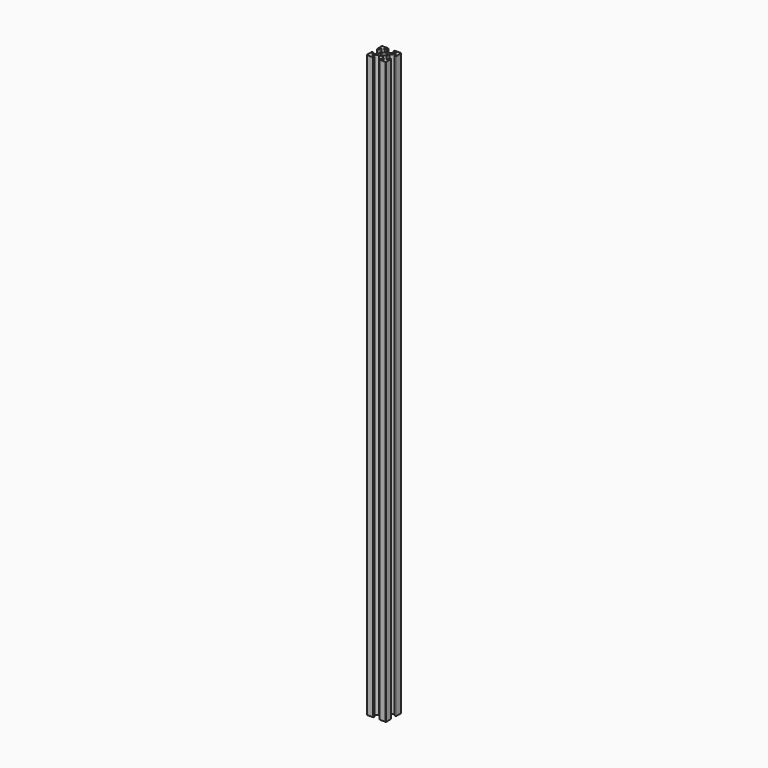
from build123d import *

# Parameters (mm, degrees)
F0_R     = 1.25
F1_DEPTH = 20
F2_DEPTH = 30
F3_DEPTH = 50
F4_DEPTH = 75
F5_DEPTH = 100
F6_DEPTH = 150


with BuildPart() as f1:
    # F0 (on Top) → F1 (new body, symmetric)
    with BuildSketch(Plane.XY):
        with BuildLine():
            Line((-2, 1), (-2, 0))
            Line((-2, 0), (-2, -1))
            Line((-2, -1), (-3.646791, -2.962569))
            ThreePointArc((-3.646791, -2.962569), (-3.868404, -3.02195), (-4, -2.834012))
            Line((-4, -2.834012), (-4, -1.7))
            ThreePointArc((-4, -1.7), (-4.058579, -1.558579), (-4.2, -1.5))
            Line((-4.2, -1.5), (-4.8, -1.5))
            ThreePointArc((-4.8, -1.5), (-4.941421, -1.558579), (-5, -1.7))
            Line((-5, -1.7), (-5, -4.8))
            ThreePointArc((-5, -4.8), (-4.984776, -4.876537), (-4.941421, -4.941421))
            ThreePointArc((-4.941421, -4.941421), (-4.876537, -4.984776), (-4.8, -5))
            Line((-4.8, -5), (-1.7, -5))
            ThreePointArc((-1.7, -5), (-1.558579, -4.941421), (-1.5, -4.8))
            Line((-1.5, -4.8), (-1.5, -4.2))
            ThreePointArc((-1.5, -4.2), (-1.558579, -4.058579), (-1.7, -4))
            Line((-1.7, -4), (-2.834012, -4))
            ThreePointArc((-2.834012, -4), (-3.02195, -3.868404), (-2.962569, -3.646791))
            Line((-2.962569, -3.646791), (-1, -2))
            Line((-1, -2), (0, -2))
            Line((0, -2), (1, -2))
            Line((1, -2), (2.962569, -3.646791))
            ThreePointArc((2.962569, -3.646791), (3.02195, -3.868404), (2.834012, -4))
            Line((2.834012, -4), (1.7, -4))
            ThreePointArc((1.7, -4), (1.558579, -4.058579), (1.5, -4.2))
            Line((1.5, -4.2), (1.5, -4.8))
            ThreePointArc((1.5, -4.8), (1.558579, -4.941421), (1.7, -5))
            Line((1.7, -5), (4.8, -5))
            ThreePointArc((4.8, -5), (4.876537, -4.984776), (4.941421, -4.941421))
            ThreePointArc((4.941421, -4.941421), (4.984776, -4.876537), (5, -4.8))
            Line((5, -4.8), (5, -1.7))
            ThreePointArc((5, -1.7), (4.941421, -1.558579), (4.8, -1.5))
            Line((4.8, -1.5), (4.2, -1.5))
            ThreePointArc((4.2, -1.5), (4.058579, -1.558579), (4, -1.7))
            Line((4, -1.7), (4, -2.834012))
            ThreePointArc((4, -2.834012), (3.868404, -3.02195), (3.646791, -2.962569))
            Line((3.646791, -2.962569), (2, -1))
            Line((2, -1), (2, 0))
            Line((2, 0), (2, 1))
            Line((2, 1), (3.646791, 2.962569))
            ThreePointArc((3.646791, 2.962569), (3.868404, 3.02195), (4, 2.834012))
            Line((4, 2.834012), (4, 1.7))
            ThreePointArc((4, 1.7), (4.058579, 1.558579), (4.2, 1.5))
            Line((4.2, 1.5), (4.8, 1.5))
            ThreePointArc((4.8, 1.5), (4.941421, 1.558579), (5, 1.7))
            Line((5, 1.7), (5, 4.8))
            ThreePointArc((5, 4.8), (4.984776, 4.876537), (4.941421, 4.941421))
            ThreePointArc((4.941421, 4.941421), (4.876537, 4.984776), (4.8, 5))
            Line((4.8, 5), (1.7, 5))
            ThreePointArc((1.7, 5), (1.558579, 4.941421), (1.5, 4.8))
            Line((1.5, 4.8), (1.5, 4.2))
            ThreePointArc((1.5, 4.2), (1.558579, 4.058579), (1.7, 4))
            Line((1.7, 4), (2.834012, 4))
            ThreePointArc((2.834012, 4), (3.02195, 3.868404), (2.962569, 3.646791))
            Line((2.962569, 3.646791), (1, 2))
            Line((1, 2), (0, 2))
            Line((0, 2), (-1, 2))
            Line((-1, 2), (-2.962569, 3.646791))
            ThreePointArc((-2.962569, 3.646791), (-3.02195, 3.868404), (-2.834012, 4))
            Line((-2.834012, 4), (-1.7, 4))
            ThreePointArc((-1.7, 4), (-1.558579, 4.058579), (-1.5, 4.2))
            Line((-1.5, 4.2), (-1.5, 4.8))
            ThreePointArc((-1.5, 4.8), (-1.558579, 4.941421), (-1.7, 5))
            Line((-1.7, 5), (-4.8, 5))
            ThreePointArc((-4.8, 5), (-4.876537, 4.984776), (-4.941421, 4.941421))
            ThreePointArc((-4.941421, 4.941421), (-4.984776, 4.876537), (-5, 4.8))
            Line((-5, 4.8), (-5, 1.7))
            ThreePointArc((-5, 1.7), (-4.941421, 1.558579), (-4.8, 1.5))
            Line((-4.8, 1.5), (-4.2, 1.5))
            ThreePointArc((-4.2, 1.5), (-4.058579, 1.558579), (-4, 1.7))
            Line((-4, 1.7), (-4, 2.834012))
            ThreePointArc((-4, 2.834012), (-3.868404, 3.02195), (-3.646791, 2.962569))
            Line((-3.646791, 2.962569), (-2, 1))
        make_face()
        Circle(F0_R, mode=Mode.SUBTRACT)
    extrude(amount=F1_DEPTH, both=True)


with BuildPart() as f2:
    # F0 (on Top) → F2 (new body, symmetric)
    with BuildSketch(Plane.XY):
        with BuildLine():
            Line((-2, 1), (-2, 0))
            Line((-2, 0), (-2, -1))
            Line((-2, -1), (-3.646791, -2.962569))
            ThreePointArc((-3.646791, -2.962569), (-3.868404, -3.02195), (-4, -2.834012))
            Line((-4, -2.834012), (-4, -1.7))
            ThreePointArc((-4, -1.7), (-4.058579, -1.558579), (-4.2, -1.5))
            Line((-4.2, -1.5), (-4.8, -1.5))
            ThreePointArc((-4.8, -1.5), (-4.941421, -1.558579), (-5, -1.7))
            Line((-5, -1.7), (-5, -4.8))
            ThreePointArc((-5, -4.8), (-4.984776, -4.876537), (-4.941421, -4.941421))
            ThreePointArc((-4.941421, -4.941421), (-4.876537, -4.984776), (-4.8, -5))
            Line((-4.8, -5), (-1.7, -5))
            ThreePointArc((-1.7, -5), (-1.558579, -4.941421), (-1.5, -4.8))
            Line((-1.5, -4.8), (-1.5, -4.2))
            ThreePointArc((-1.5, -4.2), (-1.558579, -4.058579), (-1.7, -4))
            Line((-1.7, -4), (-2.834012, -4))
            ThreePointArc((-2.834012, -4), (-3.02195, -3.868404), (-2.962569, -3.646791))
            Line((-2.962569, -3.646791), (-1, -2))
            Line((-1, -2), (0, -2))
            Line((0, -2), (1, -2))
            Line((1, -2), (2.962569, -3.646791))
            ThreePointArc((2.962569, -3.646791), (3.02195, -3.868404), (2.834012, -4))
            Line((2.834012, -4), (1.7, -4))
            ThreePointArc((1.7, -4), (1.558579, -4.058579), (1.5, -4.2))
            Line((1.5, -4.2), (1.5, -4.8))
            ThreePointArc((1.5, -4.8), (1.558579, -4.941421), (1.7, -5))
            Line((1.7, -5), (4.8, -5))
            ThreePointArc((4.8, -5), (4.876537, -4.984776), (4.941421, -4.941421))
            ThreePointArc((4.941421, -4.941421), (4.984776, -4.876537), (5, -4.8))
            Line((5, -4.8), (5, -1.7))
            ThreePointArc((5, -1.7), (4.941421, -1.558579), (4.8, -1.5))
            Line((4.8, -1.5), (4.2, -1.5))
            ThreePointArc((4.2, -1.5), (4.058579, -1.558579), (4, -1.7))
            Line((4, -1.7), (4, -2.834012))
            ThreePointArc((4, -2.834012), (3.868404, -3.02195), (3.646791, -2.962569))
            Line((3.646791, -2.962569), (2, -1))
            Line((2, -1), (2, 0))
            Line((2, 0), (2, 1))
            Line((2, 1), (3.646791, 2.962569))
            ThreePointArc((3.646791, 2.962569), (3.868404, 3.02195), (4, 2.834012))
            Line((4, 2.834012), (4, 1.7))
            ThreePointArc((4, 1.7), (4.058579, 1.558579), (4.2, 1.5))
            Line((4.2, 1.5), (4.8, 1.5))
            ThreePointArc((4.8, 1.5), (4.941421, 1.558579), (5, 1.7))
            Line((5, 1.7), (5, 4.8))
            ThreePointArc((5, 4.8), (4.984776, 4.876537), (4.941421, 4.941421))
            ThreePointArc((4.941421, 4.941421), (4.876537, 4.984776), (4.8, 5))
            Line((4.8, 5), (1.7, 5))
            ThreePointArc((1.7, 5), (1.558579, 4.941421), (1.5, 4.8))
            Line((1.5, 4.8), (1.5, 4.2))
            ThreePointArc((1.5, 4.2), (1.558579, 4.058579), (1.7, 4))
            Line((1.7, 4), (2.834012, 4))
            ThreePointArc((2.834012, 4), (3.02195, 3.868404), (2.962569, 3.646791))
            Line((2.962569, 3.646791), (1, 2))
            Line((1, 2), (0, 2))
            Line((0, 2), (-1, 2))
            Line((-1, 2), (-2.962569, 3.646791))
            ThreePointArc((-2.962569, 3.646791), (-3.02195, 3.868404), (-2.834012, 4))
            Line((-2.834012, 4), (-1.7, 4))
            ThreePointArc((-1.7, 4), (-1.558579, 4.058579), (-1.5, 4.2))
            Line((-1.5, 4.2), (-1.5, 4.8))
            ThreePointArc((-1.5, 4.8), (-1.558579, 4.941421), (-1.7, 5))
            Line((-1.7, 5), (-4.8, 5))
            ThreePointArc((-4.8, 5), (-4.876537, 4.984776), (-4.941421, 4.941421))
            ThreePointArc((-4.941421, 4.941421), (-4.984776, 4.876537), (-5, 4.8))
            Line((-5, 4.8), (-5, 1.7))
            ThreePointArc((-5, 1.7), (-4.941421, 1.558579), (-4.8, 1.5))
            Line((-4.8, 1.5), (-4.2, 1.5))
            ThreePointArc((-4.2, 1.5), (-4.058579, 1.558579), (-4, 1.7))
            Line((-4, 1.7), (-4, 2.834012))
            ThreePointArc((-4, 2.834012), (-3.868404, 3.02195), (-3.646791, 2.962569))
            Line((-3.646791, 2.962569), (-2, 1))
        make_face()
        Circle(F0_R, mode=Mode.SUBTRACT)
    extrude(amount=F2_DEPTH, both=True)


with BuildPart() as f3:
    # F0 (on Top) → F3 (new body, symmetric)
    with BuildSketch(Plane.XY):
        with BuildLine():
            Line((-2, 1), (-2, 0))
            Line((-2, 0), (-2, -1))
            Line((-2, -1), (-3.646791, -2.962569))
            ThreePointArc((-3.646791, -2.962569), (-3.868404, -3.02195), (-4, -2.834012))
            Line((-4, -2.834012), (-4, -1.7))
            ThreePointArc((-4, -1.7), (-4.058579, -1.558579), (-4.2, -1.5))
            Line((-4.2, -1.5), (-4.8, -1.5))
            ThreePointArc((-4.8, -1.5), (-4.941421, -1.558579), (-5, -1.7))
            Line((-5, -1.7), (-5, -4.8))
            ThreePointArc((-5, -4.8), (-4.984776, -4.876537), (-4.941421, -4.941421))
            ThreePointArc((-4.941421, -4.941421), (-4.876537, -4.984776), (-4.8, -5))
            Line((-4.8, -5), (-1.7, -5))
            ThreePointArc((-1.7, -5), (-1.558579, -4.941421), (-1.5, -4.8))
            Line((-1.5, -4.8), (-1.5, -4.2))
            ThreePointArc((-1.5, -4.2), (-1.558579, -4.058579), (-1.7, -4))
            Line((-1.7, -4), (-2.834012, -4))
            ThreePointArc((-2.834012, -4), (-3.02195, -3.868404), (-2.962569, -3.646791))
            Line((-2.962569, -3.646791), (-1, -2))
            Line((-1, -2), (0, -2))
            Line((0, -2), (1, -2))
            Line((1, -2), (2.962569, -3.646791))
            ThreePointArc((2.962569, -3.646791), (3.02195, -3.868404), (2.834012, -4))
            Line((2.834012, -4), (1.7, -4))
            ThreePointArc((1.7, -4), (1.558579, -4.058579), (1.5, -4.2))
            Line((1.5, -4.2), (1.5, -4.8))
            ThreePointArc((1.5, -4.8), (1.558579, -4.941421), (1.7, -5))
            Line((1.7, -5), (4.8, -5))
            ThreePointArc((4.8, -5), (4.876537, -4.984776), (4.941421, -4.941421))
            ThreePointArc((4.941421, -4.941421), (4.984776, -4.876537), (5, -4.8))
            Line((5, -4.8), (5, -1.7))
            ThreePointArc((5, -1.7), (4.941421, -1.558579), (4.8, -1.5))
            Line((4.8, -1.5), (4.2, -1.5))
            ThreePointArc((4.2, -1.5), (4.058579, -1.558579), (4, -1.7))
            Line((4, -1.7), (4, -2.834012))
            ThreePointArc((4, -2.834012), (3.868404, -3.02195), (3.646791, -2.962569))
            Line((3.646791, -2.962569), (2, -1))
            Line((2, -1), (2, 0))
            Line((2, 0), (2, 1))
            Line((2, 1), (3.646791, 2.962569))
            ThreePointArc((3.646791, 2.962569), (3.868404, 3.02195), (4, 2.834012))
            Line((4, 2.834012), (4, 1.7))
            ThreePointArc((4, 1.7), (4.058579, 1.558579), (4.2, 1.5))
            Line((4.2, 1.5), (4.8, 1.5))
            ThreePointArc((4.8, 1.5), (4.941421, 1.558579), (5, 1.7))
            Line((5, 1.7), (5, 4.8))
            ThreePointArc((5, 4.8), (4.984776, 4.876537), (4.941421, 4.941421))
            ThreePointArc((4.941421, 4.941421), (4.876537, 4.984776), (4.8, 5))
            Line((4.8, 5), (1.7, 5))
            ThreePointArc((1.7, 5), (1.558579, 4.941421), (1.5, 4.8))
            Line((1.5, 4.8), (1.5, 4.2))
            ThreePointArc((1.5, 4.2), (1.558579, 4.058579), (1.7, 4))
            Line((1.7, 4), (2.834012, 4))
            ThreePointArc((2.834012, 4), (3.02195, 3.868404), (2.962569, 3.646791))
            Line((2.962569, 3.646791), (1, 2))
            Line((1, 2), (0, 2))
            Line((0, 2), (-1, 2))
            Line((-1, 2), (-2.962569, 3.646791))
            ThreePointArc((-2.962569, 3.646791), (-3.02195, 3.868404), (-2.834012, 4))
            Line((-2.834012, 4), (-1.7, 4))
            ThreePointArc((-1.7, 4), (-1.558579, 4.058579), (-1.5, 4.2))
            Line((-1.5, 4.2), (-1.5, 4.8))
            ThreePointArc((-1.5, 4.8), (-1.558579, 4.941421), (-1.7, 5))
            Line((-1.7, 5), (-4.8, 5))
            ThreePointArc((-4.8, 5), (-4.876537, 4.984776), (-4.941421, 4.941421))
            ThreePointArc((-4.941421, 4.941421), (-4.984776, 4.876537), (-5, 4.8))
            Line((-5, 4.8), (-5, 1.7))
            ThreePointArc((-5, 1.7), (-4.941421, 1.558579), (-4.8, 1.5))
            Line((-4.8, 1.5), (-4.2, 1.5))
            ThreePointArc((-4.2, 1.5), (-4.058579, 1.558579), (-4, 1.7))
            Line((-4, 1.7), (-4, 2.834012))
            ThreePointArc((-4, 2.834012), (-3.868404, 3.02195), (-3.646791, 2.962569))
            Line((-3.646791, 2.962569), (-2, 1))
        make_face()
        Circle(F0_R, mode=Mode.SUBTRACT)
    extrude(amount=F3_DEPTH, both=True)


with BuildPart() as f4:
    # F0 (on Top) → F4 (new body, symmetric)
    with BuildSketch(Plane.XY):
        with BuildLine():
            Line((-2, 1), (-2, 0))
            Line((-2, 0), (-2, -1))
            Line((-2, -1), (-3.646791, -2.962569))
            ThreePointArc((-3.646791, -2.962569), (-3.868404, -3.02195), (-4, -2.834012))
            Line((-4, -2.834012), (-4, -1.7))
            ThreePointArc((-4, -1.7), (-4.058579, -1.558579), (-4.2, -1.5))
            Line((-4.2, -1.5), (-4.8, -1.5))
            ThreePointArc((-4.8, -1.5), (-4.941421, -1.558579), (-5, -1.7))
            Line((-5, -1.7), (-5, -4.8))
            ThreePointArc((-5, -4.8), (-4.984776, -4.876537), (-4.941421, -4.941421))
            ThreePointArc((-4.941421, -4.941421), (-4.876537, -4.984776), (-4.8, -5))
            Line((-4.8, -5), (-1.7, -5))
            ThreePointArc((-1.7, -5), (-1.558579, -4.941421), (-1.5, -4.8))
            Line((-1.5, -4.8), (-1.5, -4.2))
            ThreePointArc((-1.5, -4.2), (-1.558579, -4.058579), (-1.7, -4))
            Line((-1.7, -4), (-2.834012, -4))
            ThreePointArc((-2.834012, -4), (-3.02195, -3.868404), (-2.962569, -3.646791))
            Line((-2.962569, -3.646791), (-1, -2))
            Line((-1, -2), (0, -2))
            Line((0, -2), (1, -2))
            Line((1, -2), (2.962569, -3.646791))
            ThreePointArc((2.962569, -3.646791), (3.02195, -3.868404), (2.834012, -4))
            Line((2.834012, -4), (1.7, -4))
            ThreePointArc((1.7, -4), (1.558579, -4.058579), (1.5, -4.2))
            Line((1.5, -4.2), (1.5, -4.8))
            ThreePointArc((1.5, -4.8), (1.558579, -4.941421), (1.7, -5))
            Line((1.7, -5), (4.8, -5))
            ThreePointArc((4.8, -5), (4.876537, -4.984776), (4.941421, -4.941421))
            ThreePointArc((4.941421, -4.941421), (4.984776, -4.876537), (5, -4.8))
            Line((5, -4.8), (5, -1.7))
            ThreePointArc((5, -1.7), (4.941421, -1.558579), (4.8, -1.5))
            Line((4.8, -1.5), (4.2, -1.5))
            ThreePointArc((4.2, -1.5), (4.058579, -1.558579), (4, -1.7))
            Line((4, -1.7), (4, -2.834012))
            ThreePointArc((4, -2.834012), (3.868404, -3.02195), (3.646791, -2.962569))
            Line((3.646791, -2.962569), (2, -1))
            Line((2, -1), (2, 0))
            Line((2, 0), (2, 1))
            Line((2, 1), (3.646791, 2.962569))
            ThreePointArc((3.646791, 2.962569), (3.868404, 3.02195), (4, 2.834012))
            Line((4, 2.834012), (4, 1.7))
            ThreePointArc((4, 1.7), (4.058579, 1.558579), (4.2, 1.5))
            Line((4.2, 1.5), (4.8, 1.5))
            ThreePointArc((4.8, 1.5), (4.941421, 1.558579), (5, 1.7))
            Line((5, 1.7), (5, 4.8))
            ThreePointArc((5, 4.8), (4.984776, 4.876537), (4.941421, 4.941421))
            ThreePointArc((4.941421, 4.941421), (4.876537, 4.984776), (4.8, 5))
            Line((4.8, 5), (1.7, 5))
            ThreePointArc((1.7, 5), (1.558579, 4.941421), (1.5, 4.8))
            Line((1.5, 4.8), (1.5, 4.2))
            ThreePointArc((1.5, 4.2), (1.558579, 4.058579), (1.7, 4))
            Line((1.7, 4), (2.834012, 4))
            ThreePointArc((2.834012, 4), (3.02195, 3.868404), (2.962569, 3.646791))
            Line((2.962569, 3.646791), (1, 2))
            Line((1, 2), (0, 2))
            Line((0, 2), (-1, 2))
            Line((-1, 2), (-2.962569, 3.646791))
            ThreePointArc((-2.962569, 3.646791), (-3.02195, 3.868404), (-2.834012, 4))
            Line((-2.834012, 4), (-1.7, 4))
            ThreePointArc((-1.7, 4), (-1.558579, 4.058579), (-1.5, 4.2))
            Line((-1.5, 4.2), (-1.5, 4.8))
            ThreePointArc((-1.5, 4.8), (-1.558579, 4.941421), (-1.7, 5))
            Line((-1.7, 5), (-4.8, 5))
            ThreePointArc((-4.8, 5), (-4.876537, 4.984776), (-4.941421, 4.941421))
            ThreePointArc((-4.941421, 4.941421), (-4.984776, 4.876537), (-5, 4.8))
            Line((-5, 4.8), (-5, 1.7))
            ThreePointArc((-5, 1.7), (-4.941421, 1.558579), (-4.8, 1.5))
            Line((-4.8, 1.5), (-4.2, 1.5))
            ThreePointArc((-4.2, 1.5), (-4.058579, 1.558579), (-4, 1.7))
            Line((-4, 1.7), (-4, 2.834012))
            ThreePointArc((-4, 2.834012), (-3.868404, 3.02195), (-3.646791, 2.962569))
            Line((-3.646791, 2.962569), (-2, 1))
        make_face()
        Circle(F0_R, mode=Mode.SUBTRACT)
    extrude(amount=F4_DEPTH, both=True)


with BuildPart() as f5:
    # F0 (on Top) → F5 (new body, symmetric)
    with BuildSketch(Plane.XY):
        with BuildLine():
            Line((-2, 1), (-2, 0))
            Line((-2, 0), (-2, -1))
            Line((-2, -1), (-3.646791, -2.962569))
            ThreePointArc((-3.646791, -2.962569), (-3.868404, -3.02195), (-4, -2.834012))
            Line((-4, -2.834012), (-4, -1.7))
            ThreePointArc((-4, -1.7), (-4.058579, -1.558579), (-4.2, -1.5))
            Line((-4.2, -1.5), (-4.8, -1.5))
            ThreePointArc((-4.8, -1.5), (-4.941421, -1.558579), (-5, -1.7))
            Line((-5, -1.7), (-5, -4.8))
            ThreePointArc((-5, -4.8), (-4.984776, -4.876537), (-4.941421, -4.941421))
            ThreePointArc((-4.941421, -4.941421), (-4.876537, -4.984776), (-4.8, -5))
            Line((-4.8, -5), (-1.7, -5))
            ThreePointArc((-1.7, -5), (-1.558579, -4.941421), (-1.5, -4.8))
            Line((-1.5, -4.8), (-1.5, -4.2))
            ThreePointArc((-1.5, -4.2), (-1.558579, -4.058579), (-1.7, -4))
            Line((-1.7, -4), (-2.834012, -4))
            ThreePointArc((-2.834012, -4), (-3.02195, -3.868404), (-2.962569, -3.646791))
            Line((-2.962569, -3.646791), (-1, -2))
            Line((-1, -2), (0, -2))
            Line((0, -2), (1, -2))
            Line((1, -2), (2.962569, -3.646791))
            ThreePointArc((2.962569, -3.646791), (3.02195, -3.868404), (2.834012, -4))
            Line((2.834012, -4), (1.7, -4))
            ThreePointArc((1.7, -4), (1.558579, -4.058579), (1.5, -4.2))
            Line((1.5, -4.2), (1.5, -4.8))
            ThreePointArc((1.5, -4.8), (1.558579, -4.941421), (1.7, -5))
            Line((1.7, -5), (4.8, -5))
            ThreePointArc((4.8, -5), (4.876537, -4.984776), (4.941421, -4.941421))
            ThreePointArc((4.941421, -4.941421), (4.984776, -4.876537), (5, -4.8))
            Line((5, -4.8), (5, -1.7))
            ThreePointArc((5, -1.7), (4.941421, -1.558579), (4.8, -1.5))
            Line((4.8, -1.5), (4.2, -1.5))
            ThreePointArc((4.2, -1.5), (4.058579, -1.558579), (4, -1.7))
            Line((4, -1.7), (4, -2.834012))
            ThreePointArc((4, -2.834012), (3.868404, -3.02195), (3.646791, -2.962569))
            Line((3.646791, -2.962569), (2, -1))
            Line((2, -1), (2, 0))
            Line((2, 0), (2, 1))
            Line((2, 1), (3.646791, 2.962569))
            ThreePointArc((3.646791, 2.962569), (3.868404, 3.02195), (4, 2.834012))
            Line((4, 2.834012), (4, 1.7))
            ThreePointArc((4, 1.7), (4.058579, 1.558579), (4.2, 1.5))
            Line((4.2, 1.5), (4.8, 1.5))
            ThreePointArc((4.8, 1.5), (4.941421, 1.558579), (5, 1.7))
            Line((5, 1.7), (5, 4.8))
            ThreePointArc((5, 4.8), (4.984776, 4.876537), (4.941421, 4.941421))
            ThreePointArc((4.941421, 4.941421), (4.876537, 4.984776), (4.8, 5))
            Line((4.8, 5), (1.7, 5))
            ThreePointArc((1.7, 5), (1.558579, 4.941421), (1.5, 4.8))
            Line((1.5, 4.8), (1.5, 4.2))
            ThreePointArc((1.5, 4.2), (1.558579, 4.058579), (1.7, 4))
            Line((1.7, 4), (2.834012, 4))
            ThreePointArc((2.834012, 4), (3.02195, 3.868404), (2.962569, 3.646791))
            Line((2.962569, 3.646791), (1, 2))
            Line((1, 2), (0, 2))
            Line((0, 2), (-1, 2))
            Line((-1, 2), (-2.962569, 3.646791))
            ThreePointArc((-2.962569, 3.646791), (-3.02195, 3.868404), (-2.834012, 4))
            Line((-2.834012, 4), (-1.7, 4))
            ThreePointArc((-1.7, 4), (-1.558579, 4.058579), (-1.5, 4.2))
            Line((-1.5, 4.2), (-1.5, 4.8))
            ThreePointArc((-1.5, 4.8), (-1.558579, 4.941421), (-1.7, 5))
            Line((-1.7, 5), (-4.8, 5))
            ThreePointArc((-4.8, 5), (-4.876537, 4.984776), (-4.941421, 4.941421))
            ThreePointArc((-4.941421, 4.941421), (-4.984776, 4.876537), (-5, 4.8))
            Line((-5, 4.8), (-5, 1.7))
            ThreePointArc((-5, 1.7), (-4.941421, 1.558579), (-4.8, 1.5))
            Line((-4.8, 1.5), (-4.2, 1.5))
            ThreePointArc((-4.2, 1.5), (-4.058579, 1.558579), (-4, 1.7))
            Line((-4, 1.7), (-4, 2.834012))
            ThreePointArc((-4, 2.834012), (-3.868404, 3.02195), (-3.646791, 2.962569))
            Line((-3.646791, 2.962569), (-2, 1))
        make_face()
        Circle(F0_R, mode=Mode.SUBTRACT)
    extrude(amount=F5_DEPTH, both=True)


with BuildPart() as f6:
    # F0 (on Top) → F6 (new body, symmetric)
    with BuildSketch(Plane.XY):
        with BuildLine():
            Line((-2, 1), (-2, 0))
            Line((-2, 0), (-2, -1))
            Line((-2, -1), (-3.646791, -2.962569))
            ThreePointArc((-3.646791, -2.962569), (-3.868404, -3.02195), (-4, -2.834012))
            Line((-4, -2.834012), (-4, -1.7))
            ThreePointArc((-4, -1.7), (-4.058579, -1.558579), (-4.2, -1.5))
            Line((-4.2, -1.5), (-4.8, -1.5))
            ThreePointArc((-4.8, -1.5), (-4.941421, -1.558579), (-5, -1.7))
            Line((-5, -1.7), (-5, -4.8))
            ThreePointArc((-5, -4.8), (-4.984776, -4.876537), (-4.941421, -4.941421))
            ThreePointArc((-4.941421, -4.941421), (-4.876537, -4.984776), (-4.8, -5))
            Line((-4.8, -5), (-1.7, -5))
            ThreePointArc((-1.7, -5), (-1.558579, -4.941421), (-1.5, -4.8))
            Line((-1.5, -4.8), (-1.5, -4.2))
            ThreePointArc((-1.5, -4.2), (-1.558579, -4.058579), (-1.7, -4))
            Line((-1.7, -4), (-2.834012, -4))
            ThreePointArc((-2.834012, -4), (-3.02195, -3.868404), (-2.962569, -3.646791))
            Line((-2.962569, -3.646791), (-1, -2))
            Line((-1, -2), (0, -2))
            Line((0, -2), (1, -2))
            Line((1, -2), (2.962569, -3.646791))
            ThreePointArc((2.962569, -3.646791), (3.02195, -3.868404), (2.834012, -4))
            Line((2.834012, -4), (1.7, -4))
            ThreePointArc((1.7, -4), (1.558579, -4.058579), (1.5, -4.2))
            Line((1.5, -4.2), (1.5, -4.8))
            ThreePointArc((1.5, -4.8), (1.558579, -4.941421), (1.7, -5))
            Line((1.7, -5), (4.8, -5))
            ThreePointArc((4.8, -5), (4.876537, -4.984776), (4.941421, -4.941421))
            ThreePointArc((4.941421, -4.941421), (4.984776, -4.876537), (5, -4.8))
            Line((5, -4.8), (5, -1.7))
            ThreePointArc((5, -1.7), (4.941421, -1.558579), (4.8, -1.5))
            Line((4.8, -1.5), (4.2, -1.5))
            ThreePointArc((4.2, -1.5), (4.058579, -1.558579), (4, -1.7))
            Line((4, -1.7), (4, -2.834012))
            ThreePointArc((4, -2.834012), (3.868404, -3.02195), (3.646791, -2.962569))
            Line((3.646791, -2.962569), (2, -1))
            Line((2, -1), (2, 0))
            Line((2, 0), (2, 1))
            Line((2, 1), (3.646791, 2.962569))
            ThreePointArc((3.646791, 2.962569), (3.868404, 3.02195), (4, 2.834012))
            Line((4, 2.834012), (4, 1.7))
            ThreePointArc((4, 1.7), (4.058579, 1.558579), (4.2, 1.5))
            Line((4.2, 1.5), (4.8, 1.5))
            ThreePointArc((4.8, 1.5), (4.941421, 1.558579), (5, 1.7))
            Line((5, 1.7), (5, 4.8))
            ThreePointArc((5, 4.8), (4.984776, 4.876537), (4.941421, 4.941421))
            ThreePointArc((4.941421, 4.941421), (4.876537, 4.984776), (4.8, 5))
            Line((4.8, 5), (1.7, 5))
            ThreePointArc((1.7, 5), (1.558579, 4.941421), (1.5, 4.8))
            Line((1.5, 4.8), (1.5, 4.2))
            ThreePointArc((1.5, 4.2), (1.558579, 4.058579), (1.7, 4))
            Line((1.7, 4), (2.834012, 4))
            ThreePointArc((2.834012, 4), (3.02195, 3.868404), (2.962569, 3.646791))
            Line((2.962569, 3.646791), (1, 2))
            Line((1, 2), (0, 2))
            Line((0, 2), (-1, 2))
            Line((-1, 2), (-2.962569, 3.646791))
            ThreePointArc((-2.962569, 3.646791), (-3.02195, 3.868404), (-2.834012, 4))
            Line((-2.834012, 4), (-1.7, 4))
            ThreePointArc((-1.7, 4), (-1.558579, 4.058579), (-1.5, 4.2))
            Line((-1.5, 4.2), (-1.5, 4.8))
            ThreePointArc((-1.5, 4.8), (-1.558579, 4.941421), (-1.7, 5))
            Line((-1.7, 5), (-4.8, 5))
            ThreePointArc((-4.8, 5), (-4.876537, 4.984776), (-4.941421, 4.941421))
            ThreePointArc((-4.941421, 4.941421), (-4.984776, 4.876537), (-5, 4.8))
            Line((-5, 4.8), (-5, 1.7))
            ThreePointArc((-5, 1.7), (-4.941421, 1.558579), (-4.8, 1.5))
            Line((-4.8, 1.5), (-4.2, 1.5))
            ThreePointArc((-4.2, 1.5), (-4.058579, 1.558579), (-4, 1.7))
            Line((-4, 1.7), (-4, 2.834012))
            ThreePointArc((-4, 2.834012), (-3.868404, 3.02195), (-3.646791, 2.962569))
            Line((-3.646791, 2.962569), (-2, 1))
        make_face()
        Circle(F0_R, mode=Mode.SUBTRACT)
    extrude(amount=F6_DEPTH, both=True)


solid = Compound([f1.part, f2.part, f3.part, f4.part, f5.part, f6.part])
